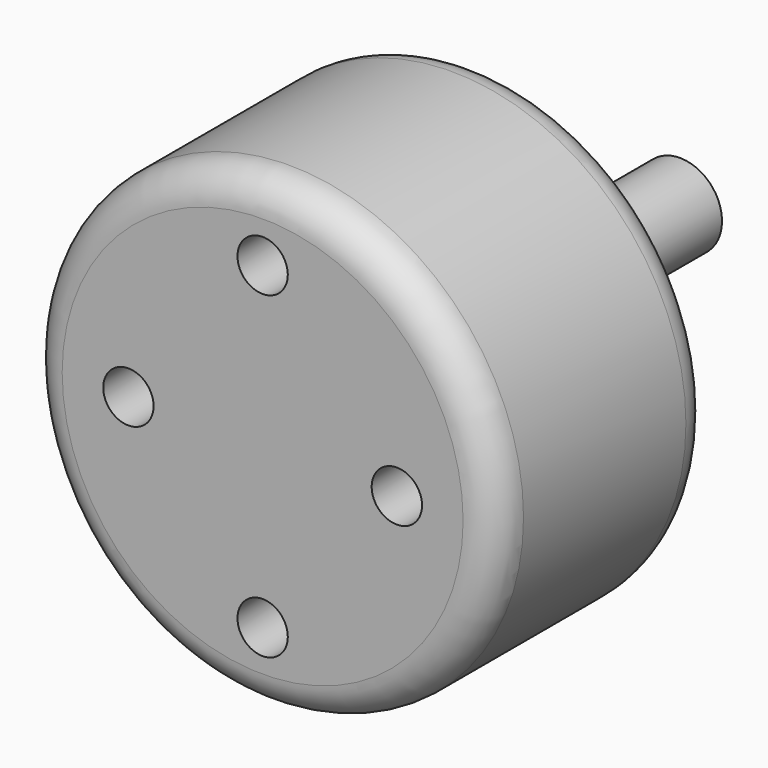
from build123d import *

# Parameters (mm, degrees)
F0_R     = 13.95
F1_DEPTH = 16.1
F2_R     = 2.5
F3_DEPTH = 15
F4_R     = 1.5
F5_DEPTH = 4
F6_R     = 2


with BuildPart() as f1:
    # F0 (on Front) → F1 (new body)
    with BuildSketch(Plane.XZ):
        Circle(F0_R)
    extrude(amount=-F1_DEPTH)

    # F2 (on face) → F3 (join)
    with BuildSketch(Plane(origin=(0, 16.1, 0), x_dir=(-1, 0, 0), z_dir=(0, 1, 0))):
        Circle(F2_R)
    extrude(amount=F3_DEPTH)

    # F4 (on face) → F5 (cut)
    with BuildSketch(Plane.XZ):
        with Locations((0, 9.5)):
            Circle(F4_R)
        with Locations((0, -9.5)):
            Circle(F4_R)
        with Locations((-8, 0)):
            Circle(F4_R)
        with Locations((8, 0)):
            Circle(F4_R)
    extrude(amount=-F5_DEPTH, mode=Mode.SUBTRACT)

    # F6
    f6_edges = [f1.edges().sort_by_distance(p)[0] for p in [
        (13.95, 8.05, 0),
        (-13.95, 0, 0),
        (-13.95, 16.1, 0),
    ]]
    fillet(f6_edges, radius=F6_R)


solid = f1.part
